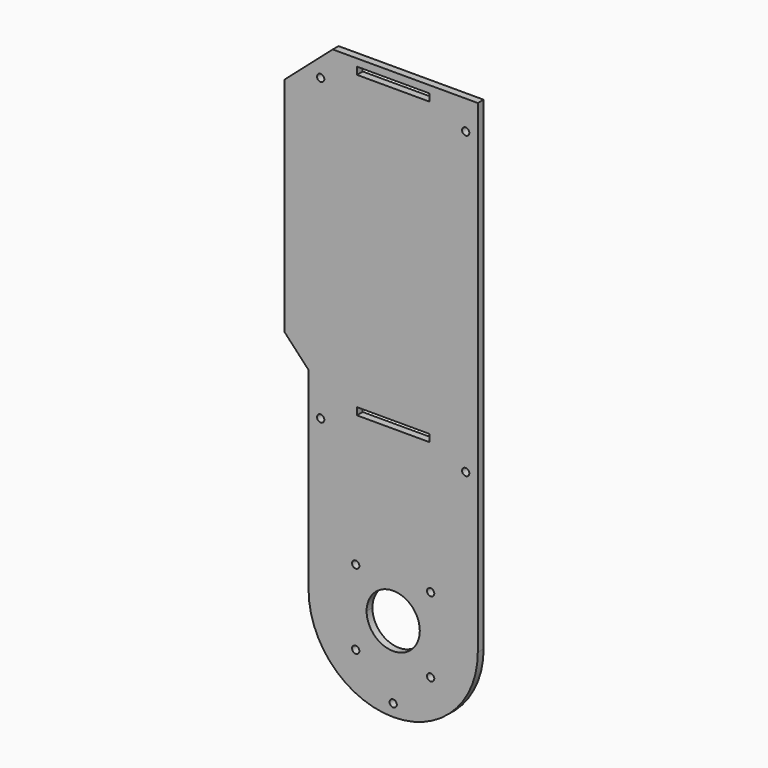
from build123d import *

# Parameters (mm, degrees)
F0_R     = 1.5
F0_W     = 30
F0_H     = 3
F1_DEPTH = 3


with BuildPart() as f1:
    # F0 (on Front) → F1 (new body)
    with BuildSketch(Plane.XZ):
        with BuildLine():
            Line((35.0000000564, -100), (34.9999999436, 100))
            Line((34.9999999436, 100), (-25.0000000564, 100))
            Line((-25.0000000564, 100), (-45.0000000465, 82.5017904114))
            Line((-45.0000000465, 82.5017904114), (-44.9999999947, -9.3309166406))
            Line((-44.9999999947, -9.3309166406), (-34.9999999887, -20))
            Line((-34.9999999887, -20), (-34.9999999436, -100))
            ThreePointArc((-34.9999999436, -100), (5.64e-08, -65), (35.0000000564, -100))
        make_face()
        with Locations((-29.9999999797, -36)):
            Circle(F0_R, mode=Mode.SUBTRACT)
        with Locations((0, -28.5)):
            Rectangle(F0_W, F0_H, mode=Mode.SUBTRACT)
        with Locations((29.9999999797, -36)):
            Circle(F0_R, mode=Mode.SUBTRACT)
        with Locations((-30.0000000496, 88)):
            Circle(F0_R, mode=Mode.SUBTRACT)
        with Locations((0, 95.5)):
            Rectangle(F0_W, F0_H, mode=Mode.SUBTRACT)
        with Locations((29.9999999504, 88)):
            Circle(F0_R, mode=Mode.SUBTRACT)
        with BuildLine():
            ThreePointArc((-34.9999999436, -100), (5.64e-08, -135), (35.0000000564, -100))
            Line((35.0000000564, -100), (11.0000010764, -100))
            ThreePointArc((11.0000010764, -100), (6.4756e-06, -110.9891012907), (-10.9999881253, -100))
            Line((-10.9999881253, -100), (-34.9999999436, -100))
        make_face()
        with Locations((-15.5, -115.5)):
            Circle(F0_R, mode=Mode.SUBTRACT)
        with Locations((0, -130)):
            Circle(F0_R, mode=Mode.SUBTRACT)
        with Locations((15.5, -115.5)):
            Circle(F0_R, mode=Mode.SUBTRACT)
        with BuildLine():
            Line((11.0000010764, -100), (35.0000000564, -100))
            ThreePointArc((35.0000000564, -100), (5.64e-08, -65), (-34.9999999436, -100))
            Line((-34.9999999436, -100), (-10.9999881253, -100))
            ThreePointArc((-10.9999881253, -100), (-0.0054428798, -88.9891026405), (11.0000064756, -99.9891012907))
            ThreePointArc((11.0000064756, -99.9891012907), (11.0000051258, -99.994550646), (11.0000010764, -100))
        make_face()
        with Locations((-15.5, -84.5)):
            Circle(F0_R, mode=Mode.SUBTRACT)
        with Locations((15.5, -84.5)):
            Circle(F0_R, mode=Mode.SUBTRACT)
    extrude(amount=F1_DEPTH)


solid = f1.part
